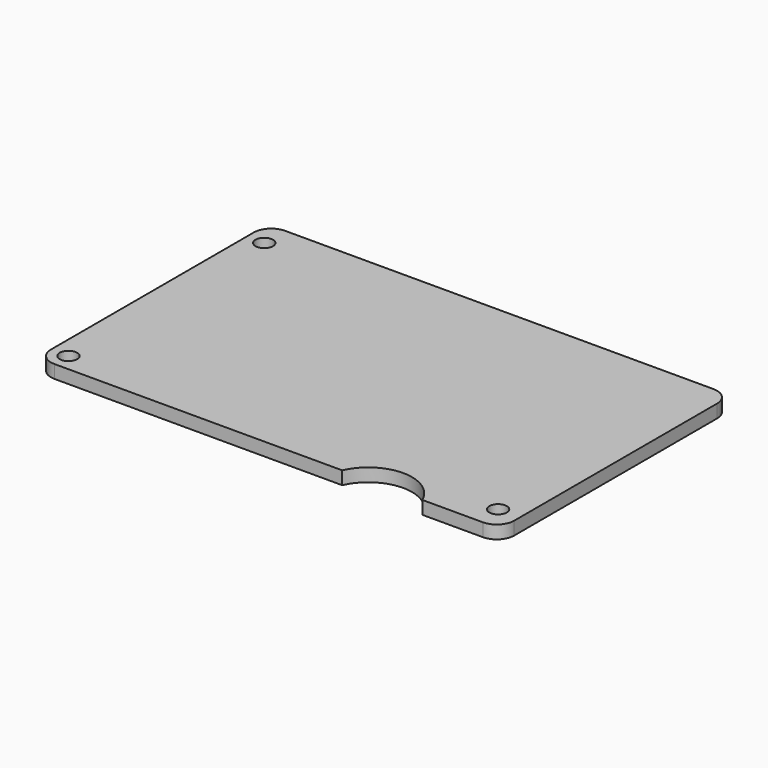
from build123d import *

# Parameters (mm, degrees)
F0_R     = 1
F1_DEPTH = 1.5
F2_R     = 2


with BuildPart() as f1:
    # F0 (on Top) → F1 (new body)
    with BuildSketch(Plane.XY):
        with BuildLine():
            Line((26.5, -16.5), (26.5, 16.5))
            Line((26.5, 16.5), (-26.5, 16.5))
            Line((-26.5, 16.5), (-26.5, -16.5))
            Line((-26.5, -16.5), (8.417424, -16.5))
            ThreePointArc((8.417424, -16.5), (13, -13.5), (17.582576, -16.5))
            Line((17.582576, -16.5), (26.5, -16.5))
        make_face()
        with Locations((-24.5, -14.5)):
            Circle(F0_R, mode=Mode.SUBTRACT)
        with Locations((24, -13.686578)):
            Circle(F0_R, mode=Mode.SUBTRACT)
        with Locations((-24.5, 13.5)):
            Circle(F0_R, mode=Mode.SUBTRACT)
    extrude(amount=F1_DEPTH)

    # F2
    f2_edges = [f1.edges().sort_by_distance(p)[0] for p in [
        (-26.5, -16.5, 0.75),
        (26.5, -16.5, 0.75),
        (26.5, 16.5, 0.75),
        (-26.5, 16.5, 0.75),
    ]]
    fillet(f2_edges, radius=F2_R)


solid = f1.part
